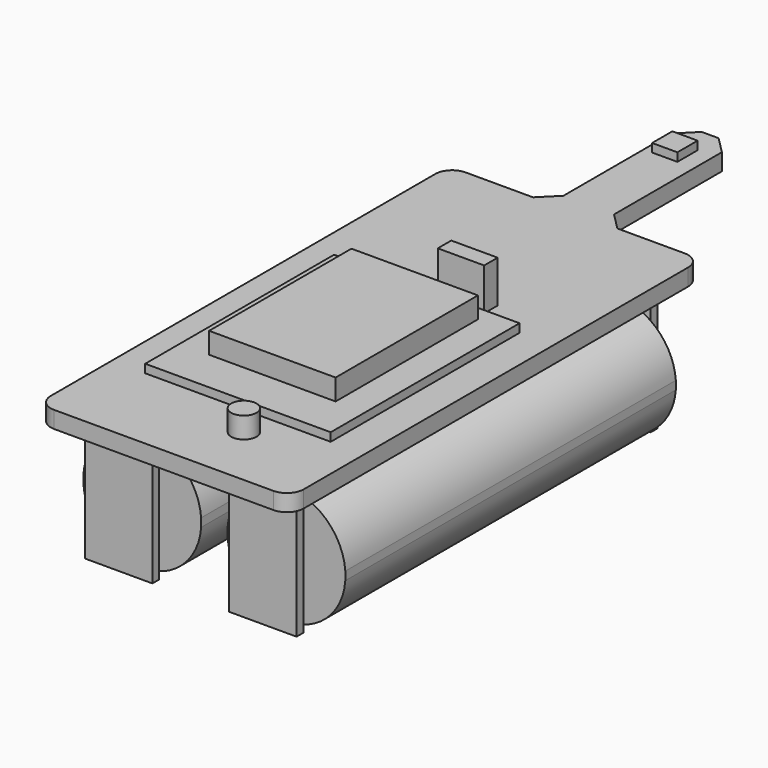
from build123d import *

# Parameters (mm, degrees)
F1_DEPTH  = 2
F2_W      = 22
F2_H      = 28
F3_DEPTH  = 1
F4_W      = 15
F4_H      = 21.1
F5_DEPTH  = 2.5
F6_W      = 5.5
F6_H      = 2
F7_DEPTH  = 5
F8_W      = 3
F8_H      = 3
F9_DEPTH  = 1
F10_R     = 1.5
F11_DEPTH = 2.5
F12_W     = 8
F12_H     = 1
F13_DEPTH = 15
F15_DEPTH = 49
F16_SIZE  = 2
F17_R     = 2
F18_W     = 8.038238
F18_H     = 1
F19_DEPTH = 0.5


with BuildPart() as f1:
    # F0 (on Top) → F1 (new body)
    with BuildSketch(Plane.XY):
        Polygon((-15, 61), (-15, 0), (15, 0), (15, 61), (3, 61), (3, 81), (-3, 81), (-3, 61), align=None)
    extrude(amount=F1_DEPTH)

    # F2 (on face) → F3 (join)
    with BuildSketch(Plane.XY.offset(2)):
        with Locations((0, 25)):
            Rectangle(F2_W, F2_H)
    extrude(amount=F3_DEPTH)

    # F4 (on face) → F5 (join)
    with BuildSketch(Plane.XY.offset(3)):
        with Locations((0, 26.65)):
            Rectangle(F4_W, F4_H)
    extrude(amount=F5_DEPTH)

    # F6 (on face) → F7 (join)
    with BuildSketch(Plane.XY.offset(2)):
        with Locations((3.25, 41)):
            Rectangle(F6_W, F6_H)
    extrude(amount=F7_DEPTH)

    # F8 (on face) → F9 (join)
    with BuildSketch(Plane.XY.offset(2)):
        with Locations((-0.5, 76.4)):
            Rectangle(F8_W, F8_H)
    extrude(amount=F9_DEPTH)

    # F10 (on face) → F11 (join)
    with BuildSketch(Plane.XY.offset(2)):
        with Locations((3.5, 7.5)):
            Circle(F10_R)
    extrude(amount=F11_DEPTH)

    # F12 (on face) → F13 (join)
    with BuildSketch(Plane(origin=(0, 0, 0), x_dir=(1, 0, 0), z_dir=(0, 0, -1))):
        with Locations((8.55, -4.5)):
            Rectangle(F12_W, F12_H)
        with Locations((-8.55, -4.5)):
            Rectangle(F12_W, F12_H)
        with Locations((8.55, -57)):
            Rectangle(F12_W, F12_H)
        with Locations((-8.55, -57)):
            Rectangle(F12_W, F12_H)
    extrude(amount=F13_DEPTH)

    # F14 (on face) → F15 (join)
    with BuildSketch(Plane.XZ.offset(-56.5)):
        with BuildLine():
            Line((15.53212, -9.6), (15.53212, -8.6))
            ThreePointArc((15.53212, -8.6), (8.55, -2.1), (1.56788, -8.6))
            Line((1.56788, -8.6), (1.56788, -9.6))
            ThreePointArc((1.56788, -9.6), (8.55, -16.1), (15.53212, -9.6))
        make_face()
        with BuildLine():
            ThreePointArc((-15.53212, -9.6), (-8.55, -16.1), (-1.56788, -9.6))
            Line((-1.56788, -9.6), (-1.56788, -8.6))
            ThreePointArc((-1.56788, -8.6), (-8.55, -2.1), (-15.53212, -8.6))
            Line((-15.53212, -8.6), (-15.53212, -9.6))
        make_face()
    extrude(amount=F15_DEPTH)

    # F16
    f16_edges = [f1.edges().sort_by_distance(p)[0] for p in [
        (-3, 61, 1),
        (3, 61, 1),
        (3, 81, 1),
        (-3, 81, 1),
    ]]
    chamfer(f16_edges, length=F16_SIZE)

    # F17
    f17_edges = [f1.edges().sort_by_distance(p)[0] for p in [
        (15, 61, 1),
        (-15, 61, 1),
        (15, 0, 1),
        (-15, 0, 1),
    ]]
    fillet(f17_edges, radius=F17_R)

    # F18 (on face) → F19 (join)
    with BuildSketch(Plane(origin=(-15.53212, 0, 0), x_dir=(0, -1, 0), z_dir=(-1, 0, 0))):
        with Locations((-32.501247, -9.1)):
            Rectangle(F18_W, F18_H)
    extrude(amount=F19_DEPTH)


solid = f1.part
